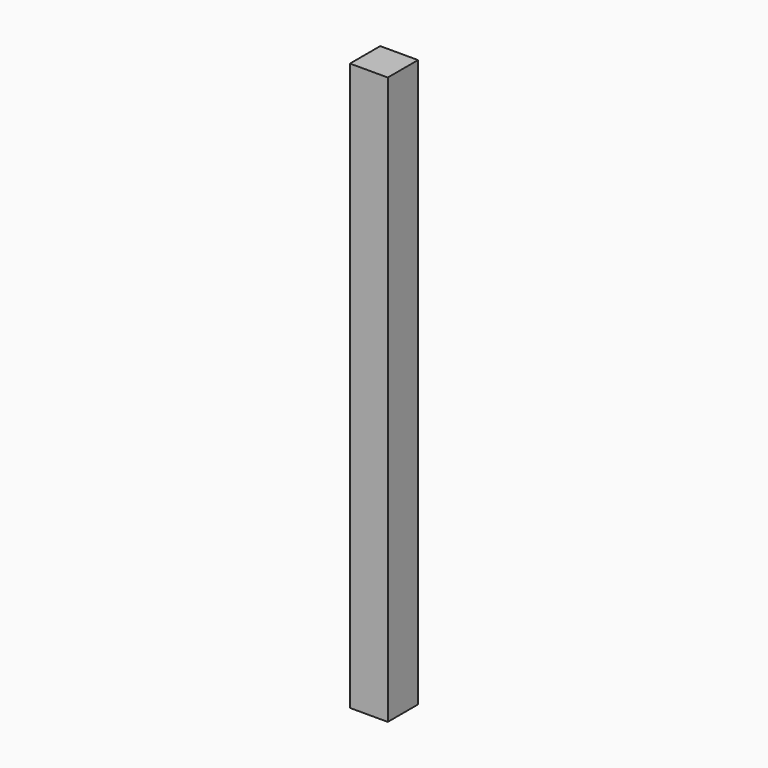
from build123d import *

# Parameters (mm, degrees)
SKETCH_W  = 203.2
SKETCH_H  = 203.2
PAD_DEPTH = 3048


with BuildPart() as part:
    # Sketch → Pad (new body)
    with BuildSketch(Plane.XY):
        with Locations((101.6, 101.6)):
            Rectangle(SKETCH_W, SKETCH_H)
    extrude(amount=PAD_DEPTH)


solid = part.part
